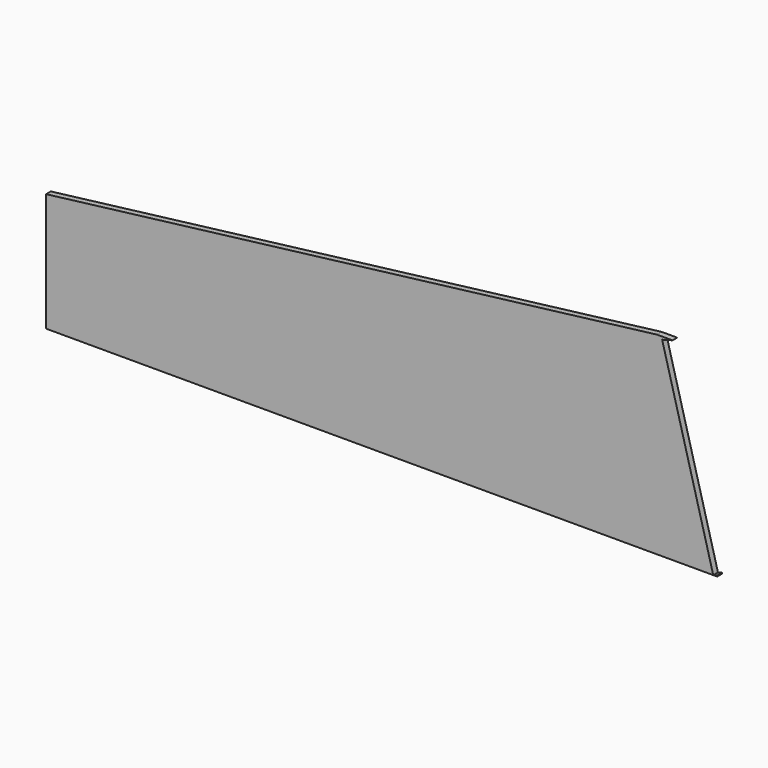
from build123d import *

# Parameters (mm, degrees)
BOX024_W               = 159
BOX024_H               = 170.5
BOX024_DEPTH           = 20.5
BOX024_PLACEMENT_ANGLE = 7
BOX023_W               = 25
BOX023_H               = 170
BOX023_DEPTH           = 50
BOX023_PLACEMENT_ANGLE = 15
BOX022_W               = 170
BOX022_H               = 1.5
BOX022_DEPTH           = 49


with BuildPart() as top001:
    # Box024 → Box024 (new body)
    with BuildSketch(Plane.XY):
        with Locations((79.5, 85.25)):
            Rectangle(BOX024_W, BOX024_H)
    extrude(amount=BOX024_DEPTH)


with BuildPart() as top001_1:
    # Box024 placement: moved
    add(top001.part.moved(Location((0, 0, 20))).rotate(Axis((0, 0, 20), (0, -1, 0)), BOX024_PLACEMENT_ANGLE))


with BuildPart() as face002:
    # Box023 → Box023 (new body)
    with BuildSketch(Plane.XY):
        with Locations((12.5, 85)):
            Rectangle(BOX023_W, BOX023_H)
    extrude(amount=BOX023_DEPTH)


with BuildPart() as face002_1:
    # Box023 placement: moved
    add(face002.part.moved(Location((169, -14, -10))).rotate(Axis((169, -14, -10), (0, -1, 0)), BOX023_PLACEMENT_ANGLE))


with BuildPart() as sidewall:
    # Box022 → Box022 (new body)
    with BuildSketch(Plane.XY.offset(-10)):
        with Locations((85, 0.75)):
            Rectangle(BOX022_W, BOX022_H)
    extrude(amount=BOX022_DEPTH)

    # Cut007: cut Face002
    add(face002_1.part, mode=Mode.SUBTRACT)

    # Cut008: cut top001
    add(top001_1.part, mode=Mode.SUBTRACT)


solid = sidewall.part
